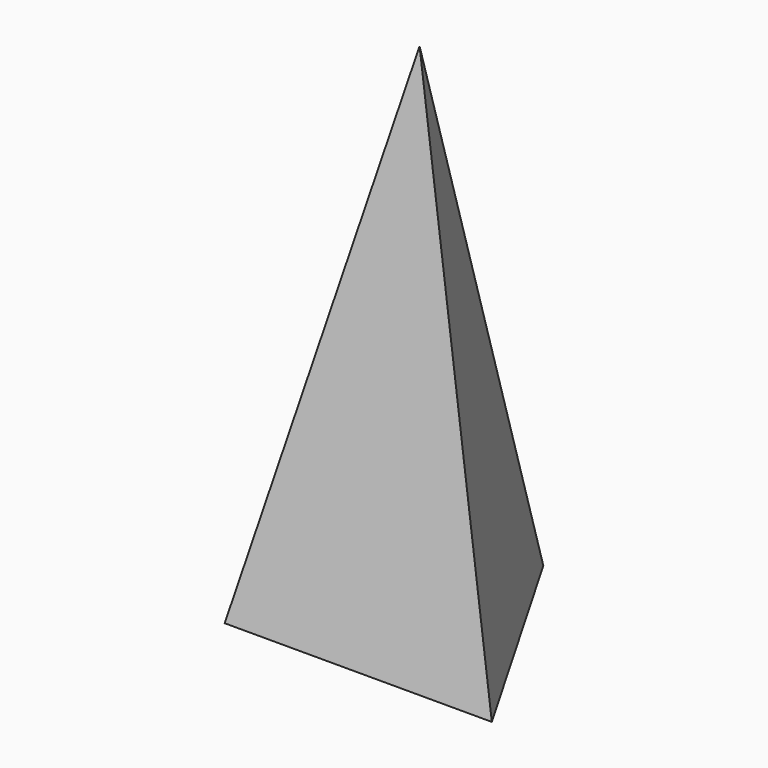
from build123d import *


with BuildPart() as f3:
    # F0 (on Top) → F3 section 0
    with BuildSketch(Plane.XY, mode=Mode.PRIVATE) as f3_s0:
        Polygon((66.009171, -38.110413), (0, 76.220825), (-66.009171, -38.110413), align=None)
    loft([f3_s0.sketch, Vertex(-3.78918, 4.517869, 254)])


solid = f3.part
